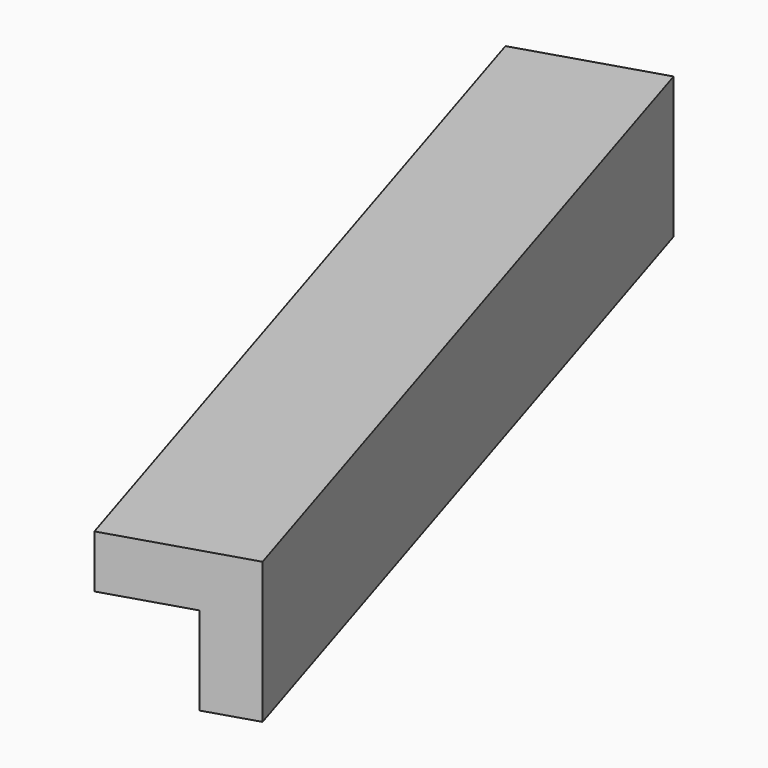
from build123d import *

# Parameters (mm, degrees)
BOX153_W               = 0.8
BOX153_H               = 5
BOX153_DEPTH           = 0.8
BOX154_W               = 0.8
BOX154_H               = 5
BOX154_DEPTH           = 0.8
CUT080_PLACEMENT_ANGLE = 17.3


with BuildPart() as cubo153:
    # Box153 → Box153 (new body)
    with BuildSketch(Plane.XY):
        with Locations((0.4, 2.5)):
            Rectangle(BOX153_W, BOX153_H)
    extrude(amount=BOX153_DEPTH)


with BuildPart() as obj1:
    # Box154 → Box154 (new body)
    with BuildSketch(Plane(origin=(0.3, 0, 0.3), x_dir=(1, 0, 0), z_dir=(0, 0, 1))):
        with Locations((0.4, 2.5)):
            Rectangle(BOX154_W, BOX154_H)
    extrude(amount=BOX154_DEPTH)

    # Cut080: cut Cubo153
    add(cubo153.part, mode=Mode.SUBTRACT)


with BuildPart() as obj1_1:
    # Cut080 placement: moved
    add(obj1.part.moved(Location((-64.2, 219.6, -1.45))).rotate(Axis((-64.2, 219.6, -1.45), (0, 0, 1)), CUT080_PLACEMENT_ANGLE))


solid = obj1_1.part
